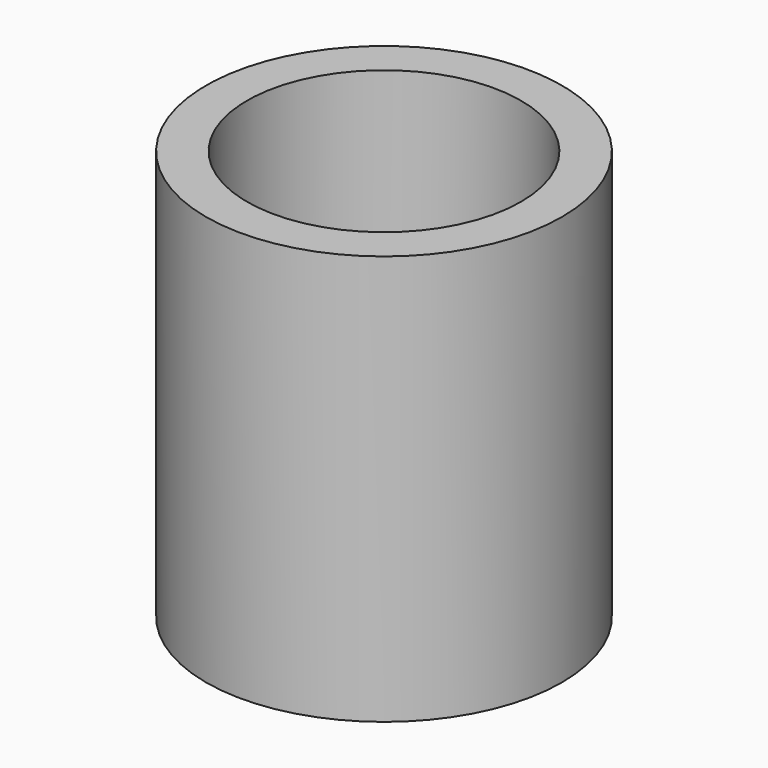
from build123d import *

# Parameters (mm, degrees)
SKETCH_R   = 13.03
SKETCH_R_2 = 10.03
PAD_DEPTH  = 30


with BuildPart() as part:
    # Sketch → Pad (new body)
    with BuildSketch(Plane.XY):
        Circle(SKETCH_R)
        Circle(SKETCH_R_2, mode=Mode.SUBTRACT)
    extrude(amount=PAD_DEPTH)


solid = part.part
